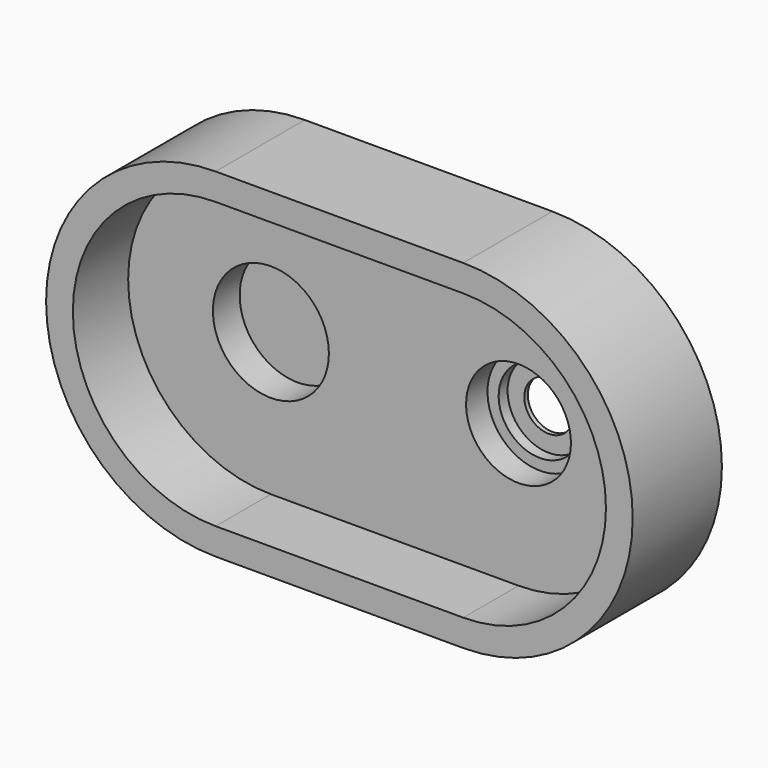
from build123d import *

# Parameters (mm, degrees)
F1_DEPTH = 50
F4_DEPTH = 200
F5_R     = 26
F6_DEPTH = 15


with BuildPart() as f1:
    # F0 (on Front) → F1 (new body)
    with BuildSketch(Plane.XZ):
        with BuildLine():
            Line((187.01288, 76.000002), (76.01288, 76.000002))
            ThreePointArc((76.01288, 76.000002), (0.01288, 2e-06), (76.01288, -75.999998))
            Line((76.01288, -75.999998), (187.01288, -75.999998))
            ThreePointArc((187.01288, -75.999998), (263.01288, 2e-06), (187.01288, 76.000002))
        make_face()
        with BuildLine():
            ThreePointArc((76.01288, -63.999998), (12.01288, 2e-06), (76.01288, 64.000002))
            Line((76.01288, 64.000002), (187.01288, 64.000002))
            ThreePointArc((187.01288, 64.000002), (251.01288, 2e-06), (187.01288, -63.999998))
            Line((187.01288, -63.999998), (76.01288, -63.999998))
        make_face(mode=Mode.SUBTRACT)
        with BuildLine():
            Line((187.01288, 64.000002), (76.01288, 64.000002))
            ThreePointArc((76.01288, 64.000002), (12.01288, 2e-06), (76.01288, -63.999998))
            Line((76.01288, -63.999998), (187.01288, -63.999998))
            ThreePointArc((187.01288, -63.999998), (251.01288, 2e-06), (187.01288, 64.000002))
        make_face()
    extrude(amount=F1_DEPTH)

    # F3 (on offset) → F4 (cut)
    with BuildSketch(Plane.XZ.offset(19)):
        with BuildLine():
            Line((187.01288, 64), (76.01288, 64))
            ThreePointArc((76.01288, 64), (12.01288, 0), (76.01288, -64))
            Line((76.01288, -64), (187.01288, -64))
            ThreePointArc((187.01288, -64), (251.01288, 0), (187.01288, 64))
        make_face()
    extrude(amount=F4_DEPTH, mode=Mode.SUBTRACT)

    # F5 (on face) → F6 (cut)
    with BuildSketch(Plane.XZ.offset(19)):
        with Locations((76, 0)):
            Circle(F5_R)
    extrude(amount=-F6_DEPTH, mode=Mode.SUBTRACT)

    # F9 (on face) → F10 (revolve, cut)
    with BuildSketch(Plane(origin=(187.01288, 0, 0), x_dir=(0, -1, 0), z_dir=(-1, 0, 0))):
        Polygon((2, 11), (-8.944635, 11), (-8.944635, 0), (19, 0), (19, 23.5), (7, 23.5), (7, 18.5), (2, 18.5), align=None)
    revolve(axis=Axis((187.01288, -5.027682, 0), (0, -1, 0)), mode=Mode.SUBTRACT)


solid = f1.part
